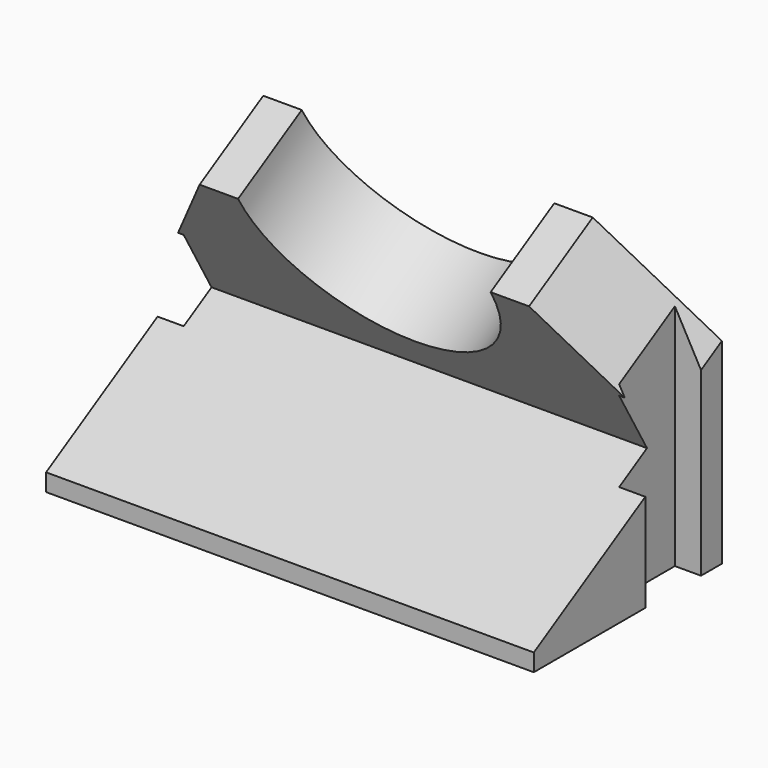
from build123d import *

# Parameters (mm, degrees)
F0_W      = 28
F0_H      = 20
F1_DEPTH  = 20
F3_DEPTH  = 20
F6_DEPTH  = 17.5
F7_W      = 1.5
F7_H      = 4
F8_DEPTH  = 40
F12_DEPTH = 15
F15_D     = 14.5
F17_DEPTH = 20
F19_DEPTH = 12.5


with BuildPart() as f1:
    # F0 (on Top) → F1 (new body)
    with BuildSketch(Plane.XY):
        Rectangle(F0_W, F0_H)
    extrude(amount=F1_DEPTH)


with BuildPart() as f3:
    # F2 (on Top) → F3 (new body)
    with BuildSketch(Plane.XY):
        Polygon((-14, 3.5), (-7.5, 10), (-14, 10), align=None)
    extrude(amount=F3_DEPTH)


with BuildPart() as f4_1:
    # F4: instance of F3
    add(f3.part.mirror(Plane.YZ))


with BuildPart() as f6:
    # F5 (on Right) → F6 (new body, symmetric)
    with BuildSketch(Plane.YZ):
        Polygon((-4.741189, 25.532488), (10, 0), (10, 25.532488), align=None)
    extrude(amount=F6_DEPTH, both=True)


with BuildPart() as f8:
    # F7 (on Top) → F8 (new body)
    with BuildSketch(Plane.XY):
        with Locations((-13.25, 0)):
            Rectangle(F7_W, F7_H)
    extrude(amount=F8_DEPTH)


with BuildPart() as f9_1:
    # F9: instance of F8
    add(f8.part.mirror(Plane.YZ))


with BuildPart() as f1_1:
    add(f1.part)

    # F10: cut F3, F4_1, F6, F8, F9_1
    add(f3.part, mode=Mode.SUBTRACT)
    add(f4_1.part, mode=Mode.SUBTRACT)
    add(f6.part, mode=Mode.SUBTRACT)
    add(f8.part, mode=Mode.SUBTRACT)
    add(f9_1.part, mode=Mode.SUBTRACT)


with BuildPart() as f12:
    # F11 (on Right) → F12 (new body, symmetric)
    with BuildSketch(Plane.YZ):
        Polygon((-10, 24.094011), (-10, 1), (0, 6.773503), align=None)
    extrude(amount=F12_DEPTH, both=True)


with BuildPart() as f1_2:
    add(f1_1.part)

    # F13: cut F12
    add(f12.part, mode=Mode.SUBTRACT)

    # F15 (through all)
    with Locations(Plane(origin=(0, 2.933013, 1.693376), x_dir=(1, 0, 0), z_dir=(0, -0.866025, -0.5))):
        with Locations((0, 15.116025)):
            Hole(F15_D / 2)


with BuildPart() as f17:
    # F16 (on Right) → F17 (new body, symmetric)
    with BuildSketch(Plane.YZ):
        Polygon((-7.5, 13.205771), (6, 21), (-12, 21), align=None)
    extrude(amount=F17_DEPTH, both=True)


with BuildPart() as f19:
    # F18 (on face) → F19 (new body, symmetric)
    with BuildSketch(Plane(origin=(0, 7.5, 4.330127), x_dir=(-1, 0, 0), z_dir=(0, 0.866025, 0.5))):
        Polygon((14, 17.490759), (8, 17.490759), (14, 8), align=None)
    extrude(amount=F19_DEPTH, both=True)


with BuildPart() as f20_1:
    # F20: instance of F19
    add(f19.part.mirror(Plane.YZ))


with BuildPart() as f1_3:
    add(f1_2.part)

    # F21: cut F20_1, F19, F17
    add(f20_1.part, mode=Mode.SUBTRACT)
    add(f19.part, mode=Mode.SUBTRACT)
    add(f17.part, mode=Mode.SUBTRACT)


solid = f1_3.part
